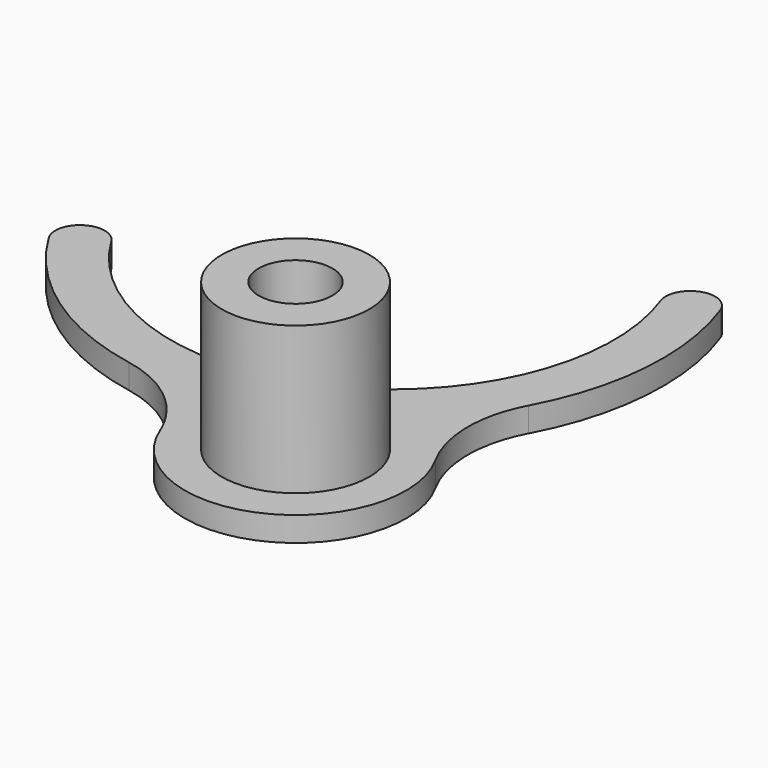
from build123d import *

# Parameters (mm, degrees)
CYLINDER907_R             = 1.5
CYLINDER907_DEPTH         = 7.35
CYLINDER903_W             = 9
CYLINDER903_H             = 1
CYLINDER903_ANGLE         = 180
CYLINDER904_W             = 11
CYLINDER904_H             = 1
CYLINDER904_ANGLE         = 180
CYLINDER906_R             = 3
CYLINDER906_DEPTH         = 7.35
CYLINDER905_R             = 4.5
CYLINDER905_DEPTH         = 1
FILLET015_R               = 5
FILLET016_R               = 0.99
FILLET016_PLACEMENT_ANGLE = 205.5


with BuildPart() as cylinder1030:
    # Cylinder907 → Cylinder907 (new body)
    with BuildSketch(Plane(origin=(0, 13.5, -0.35), x_dir=(1, 0, 0), z_dir=(0, 0, 1))):
        Circle(CYLINDER907_R)
    extrude(amount=CYLINDER907_DEPTH)


with BuildPart() as cylinder1026:
    # Cylinder903 → Cylinder903 (revolve)
    with BuildSketch(Plane.XZ):
        with Locations((4.5, 0.5)):
            Rectangle(CYLINDER903_W, CYLINDER903_H)
    revolve(axis=Axis((0, 0, 0), (0, 0, 1)), revolution_arc=CYLINDER903_ANGLE)


with BuildPart() as cut014023:
    # Cylinder904 → Cylinder904 (revolve)
    with BuildSketch(Plane.XZ):
        with Locations((5.5, 0.5)):
            Rectangle(CYLINDER904_W, CYLINDER904_H)
    revolve(axis=Axis((0, 0, 0), (0, 0, 1)), revolution_arc=CYLINDER904_ANGLE)

    # Cut014023: cut Cylinder1026
    add(cylinder1026.part, mode=Mode.SUBTRACT)


with BuildPart() as cylinder1029:
    # Cylinder906 → Cylinder906 (new body)
    with BuildSketch(Plane(origin=(0, 13.5, -0.35), x_dir=(1, 0, 0), z_dir=(0, 0, 1))):
        Circle(CYLINDER906_R)
    extrude(amount=CYLINDER906_DEPTH)


with BuildPart() as selector:
    # Cylinder905 → Cylinder905 (new body)
    with BuildSketch(Plane(origin=(0, 13.5, 0), x_dir=(1, 0, 0), z_dir=(0, 0, 1))):
        Circle(CYLINDER905_R)
    extrude(amount=CYLINDER905_DEPTH)

    # Fusion060: union Cut014023, Cylinder1029
    add(cut014023.part)
    add(cylinder1029.part)

    # Cut014024: cut Cylinder1030
    add(cylinder1030.part, mode=Mode.SUBTRACT)

    # Fillet015
    fillet015_edges = [selector.edges().sort_by_distance(p)[0] for p in [
        (-3.337446, 10.481481, 0.5),
        (3.337446, 10.481481, 0.5),
    ]]
    fillet(fillet015_edges, radius=FILLET015_R)

    # Fillet016
    fillet016_edges = [selector.edges().sort_by_distance(p)[0] for p in [
        (-11, 0, 0.5),
        (-9, 0, 0.5),
        (11, 0, 0.5),
        (9, 0, 0.5),
    ]]
    fillet(fillet016_edges, radius=FILLET016_R)


with BuildPart() as selector_1:
    # Fillet016 placement: moved
    add(selector.part.moved(Location((0.213923, -0.468228, 14.5))).rotate(Axis((0.213923, -0.468228, 14.5), (0, 0, 1)), FILLET016_PLACEMENT_ANGLE))


solid = selector_1.part
